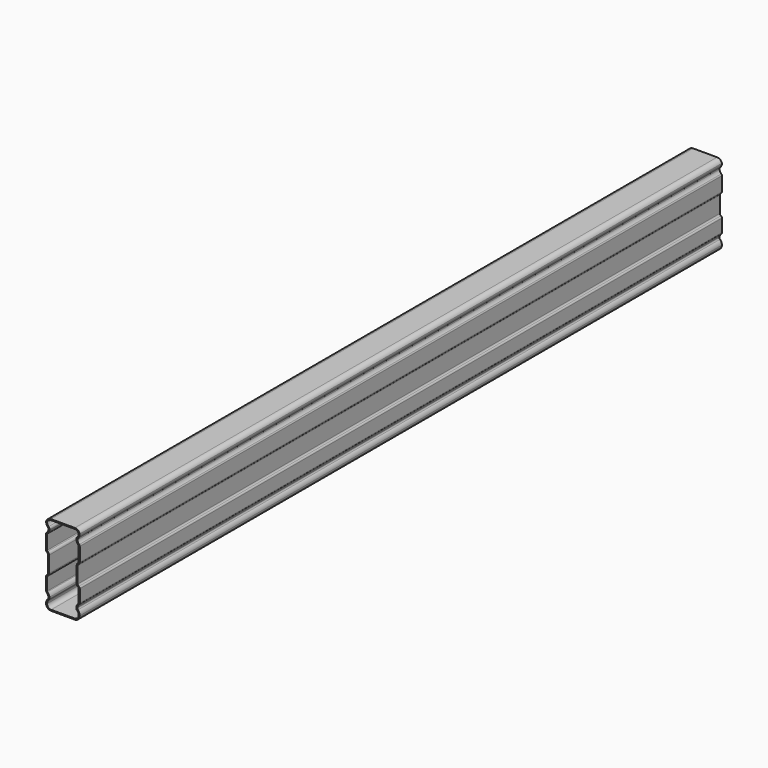
from build123d import *

# Parameters (mm, degrees)
F1_DEPTH = 1192
F2_T     = -1.5


with BuildPart() as f1:
    # F0 (on Front) → F1 (new body)
    with BuildSketch(Plane.XZ):
        with BuildLine():
            Line((-40.846474, 85.706456), (-76.418904, 85.706456))
            ThreePointArc((-76.418904, 85.706456), (-80.938799, 84.191483), (-83.632689, 80.258603))
            ThreePointArc((-83.632689, 80.258603), (-82.918779, 76.67027), (-80.88578, 73.628443))
            ThreePointArc((-80.88578, 73.628443), (-80.13546, 72.376035), (-80.065164, 70.917761))
            ThreePointArc((-80.065164, 70.917761), (-81.024186, 68.275196), (-82.723568, 66.035783))
            ThreePointArc((-82.723568, 66.035783), (-83.396078, 65.05222), (-83.632689, 63.884452))
            Line((-83.632689, 63.884452), (-83.632689, 42.902452))
            ThreePointArc((-83.632689, 42.902452), (-83.230765, 41.402452), (-82.132689, 40.304376))
            ThreePointArc((-82.132689, 40.304376), (-81.034613, 39.2063), (-80.632689, 37.7063))
            Line((-80.632689, 37.7063), (-80.632689, 13.706456))
            ThreePointArc((-80.632689, 13.706456), (-81.034613, 12.206456), (-82.132689, 11.10838))
            ThreePointArc((-82.132689, 11.10838), (-83.230765, 10.010304), (-83.632689, 8.510304))
            Line((-83.632689, 8.510304), (-83.632689, -10.388976))
            ThreePointArc((-83.632689, -10.388976), (-83.38823, -11.575142), (-82.694695, -12.567996))
            ThreePointArc((-82.694695, -12.567996), (-80.972966, -14.807673), (-80.030346, -17.470749))
            ThreePointArc((-80.030346, -17.470749), (-80.11711, -18.910604), (-80.865855, -20.143524))
            ThreePointArc((-80.865855, -20.143524), (-82.913386, -23.19222), (-83.632689, -26.793544))
            ThreePointArc((-83.632689, -26.793544), (-81.43599, -32.096845), (-76.132689, -34.293544))
            Line((-76.132689, -34.293544), (-41.132689, -34.293544))
            ThreePointArc((-41.132689, -34.293544), (-35.829388, -32.096845), (-33.632689, -26.793544))
            ThreePointArc((-33.632689, -26.793544), (-34.351992, -23.19222), (-36.399522, -20.143524))
            ThreePointArc((-36.399522, -20.143524), (-37.148267, -18.910604), (-37.235032, -17.470749))
            ThreePointArc((-37.235032, -17.470749), (-36.292412, -14.807673), (-34.570682, -12.567996))
            ThreePointArc((-34.570682, -12.567996), (-33.877147, -11.575142), (-33.632689, -10.388976))
            Line((-33.632689, -10.388976), (-33.632689, 8.510304))
            ThreePointArc((-33.632689, 8.510304), (-34.034613, 10.010304), (-35.132689, 11.10838))
            ThreePointArc((-35.132689, 11.10838), (-36.230765, 12.206456), (-36.632689, 13.706456))
            Line((-36.632689, 13.706456), (-36.632689, 37.7063))
            ThreePointArc((-36.632689, 37.7063), (-36.230765, 39.2063), (-35.132689, 40.304376))
            ThreePointArc((-35.132689, 40.304376), (-34.034613, 41.402452), (-33.632689, 42.902452))
            Line((-33.632689, 42.902452), (-33.632689, 63.884452))
            ThreePointArc((-33.632689, 63.884452), (-33.8693, 65.05222), (-34.541809, 66.035783))
            ThreePointArc((-34.541809, 66.035783), (-36.241192, 68.275196), (-37.200214, 70.917761))
            ThreePointArc((-37.200214, 70.917761), (-37.129917, 72.376035), (-36.379598, 73.628443))
            ThreePointArc((-36.379598, 73.628443), (-34.346598, 76.67027), (-33.632689, 80.258603))
            ThreePointArc((-33.632689, 80.258603), (-36.326579, 84.191483), (-40.846474, 85.706456))
        make_face()
    extrude(amount=F1_DEPTH)

    # F2
    f2_openings = [f1.faces().sort_by_distance(p)[0] for p in [
        (-58.632689, 0, 25.725749),
        (-58.632689, -1192, 25.725749),
    ]]
    offset(amount=F2_T, openings=f2_openings)


solid = f1.part
